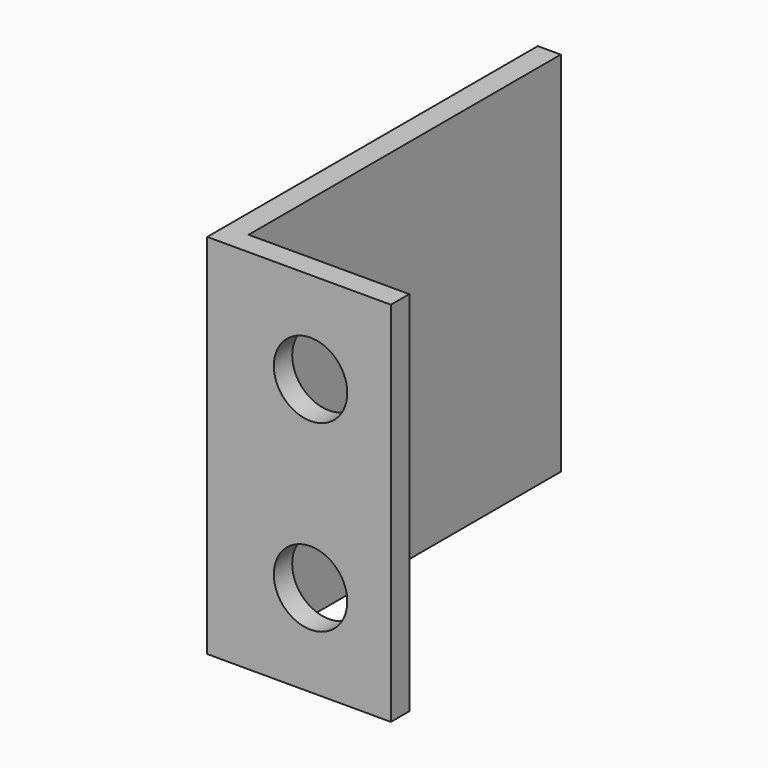
from build123d import *

# Parameters (mm, degrees)
F1_DEPTH = 25.4
F2_R     = 2.54
F3_DEPTH = 1.5885


with BuildPart() as f1:
    # F0 (on Top) → F1 (new body)
    with BuildSketch(Plane.XY):
        Polygon((0, 28.575), (0, 0), (12.7, 0), (12.7, 1.5875), (1.5875, 1.5875), (1.5875, 28.575), align=None)
    extrude(amount=F1_DEPTH)

    # F2 (on face) → F3 (cut, through all)
    with BuildSketch(Plane(origin=(0, 1.5875, 0), x_dir=(-1, 0, 0), z_dir=(0, 1, 0))):
        with Locations((-7.14375, 19.05)):
            Circle(F2_R)
        with Locations((-7.14375, 6.35)):
            Circle(F2_R)
    extrude(amount=-F3_DEPTH, mode=Mode.SUBTRACT)


solid = f1.part
